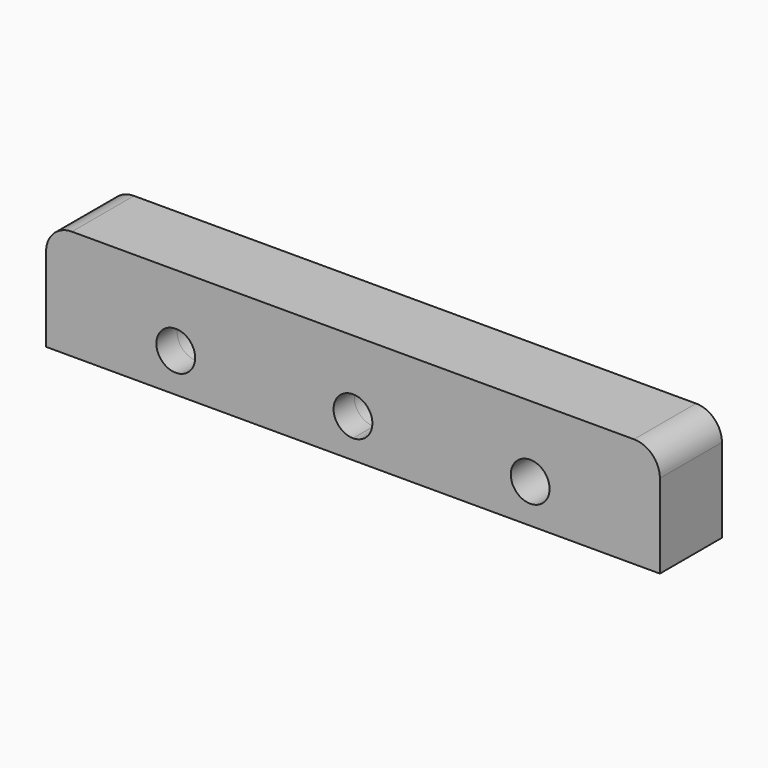
from build123d import *

# Parameters (mm, degrees)
F0_R     = 3
F0_W     = 10
F0_H     = 12
F1_DEPTH = 17
F2_R     = 3
F3_DEPTH = 12.5
F4_R     = 4


with BuildPart() as f1:
    # F0 (on Top) → F1 (new body)
    with BuildSketch(Plane.XY):
        with BuildLine():
            ThreePointArc((-12, -4), (-18, 2.0000000001), (-11.9999999997, 8))
            Line((-11.9999999997, 8), (-37.5, 8))
            Line((-37.5, 8), (-37.5, -4))
            Line((-37.5, -4), (-12, -4))
        make_face()
        with BuildLine():
            ThreePointArc((-6, 2), (-7.7573593128, 6.242640687), (-11.9999999997, 8))
            ThreePointArc((-11.9999999997, 8), (-18, 2.0000000001), (-12, -4))
            ThreePointArc((-12, -4), (-7.7573593129, -2.2426406871), (-6, 2))
        make_face()
        with Locations((-12, 2)):
            Circle(F0_R, mode=Mode.SUBTRACT)
        with Locations((-12, 2)):
            Circle(F0_R)
        with BuildLine():
            ThreePointArc((12, -4), (6, 2), (12, 8))
            Line((12, 8), (-11.9999999997, 8))
            ThreePointArc((-11.9999999997, 8), (-7.7573593128, 6.242640687), (-6, 2))
            ThreePointArc((-6, 2), (-7.7573593129, -2.2426406871), (-12, -4))
            Line((-12, -4), (12, -4))
        make_face()
        with BuildLine():
            ThreePointArc((12, -4), (16.2426406871, -2.2426406871), (18, 2))
            ThreePointArc((18, 2), (16.2426406871, 6.2426406871), (12, 8))
            ThreePointArc((12, 8), (6, 2), (12, -4))
        make_face()
        with Locations((12, 2)):
            Circle(F0_R, mode=Mode.SUBTRACT)
        with Locations((12, 2)):
            Circle(F0_R)
        with BuildLine():
            ThreePointArc((12, 8), (16.2426406871, 6.2426406871), (18, 2))
            ThreePointArc((18, 2), (16.2426406871, -2.2426406871), (12, -4))
            Line((12, -4), (37.5, -4))
            Line((37.5, -4), (37.5, 8))
            Line((37.5, 8), (12, 8))
        make_face()
        with Locations((-42.5, 2)):
            Rectangle(F0_W, F0_H)
        with BuildLine():
            ThreePointArc((-12, -4), (-18, 2.0000000001), (-11.9999999997, 8))
            Line((-11.9999999997, 8), (-37.5, 8))
            Line((-37.5, 8), (-37.5, -4))
            Line((-37.5, -4), (-12, -4))
        make_face()
        with BuildLine():
            ThreePointArc((12, 8), (16.2426406871, 6.2426406871), (18, 2))
            ThreePointArc((18, 2), (16.2426406871, -2.2426406871), (12, -4))
            Line((12, -4), (37.5, -4))
            Line((37.5, -4), (37.5, 8))
            Line((37.5, 8), (12, 8))
        make_face()
        with Locations((42.5, 2)):
            Rectangle(F0_W, F0_H)
    extrude(amount=F1_DEPTH)

    # F2 (on Front) → F3 (cut, symmetric)
    with BuildSketch(Plane.XZ):
        with BuildLine():
            ThreePointArc((0, 9), (-3, 6), (0, 3))
            Line((0, 3), (0, 9))
        make_face()
        with BuildLine():
            Line((0, 9), (0, 3))
            ThreePointArc((0, 3), (2.1213203436, 3.8786796564), (3, 6))
            ThreePointArc((3, 6), (2.1213203436, 8.1213203436), (0, 9))
        make_face()
        with Locations((-27.4271778762, 6)):
            Circle(F2_R)
        with Locations((27.4271778762, 6)):
            Circle(F2_R)
    extrude(amount=F3_DEPTH, both=True, mode=Mode.SUBTRACT)

    # F4
    f4_edges = [f1.edges().sort_by_distance(p)[0] for p in [
        (-47.5, 2, 17),
        (47.5, 2, 17),
    ]]
    fillet(f4_edges, radius=F4_R)


solid = f1.part
